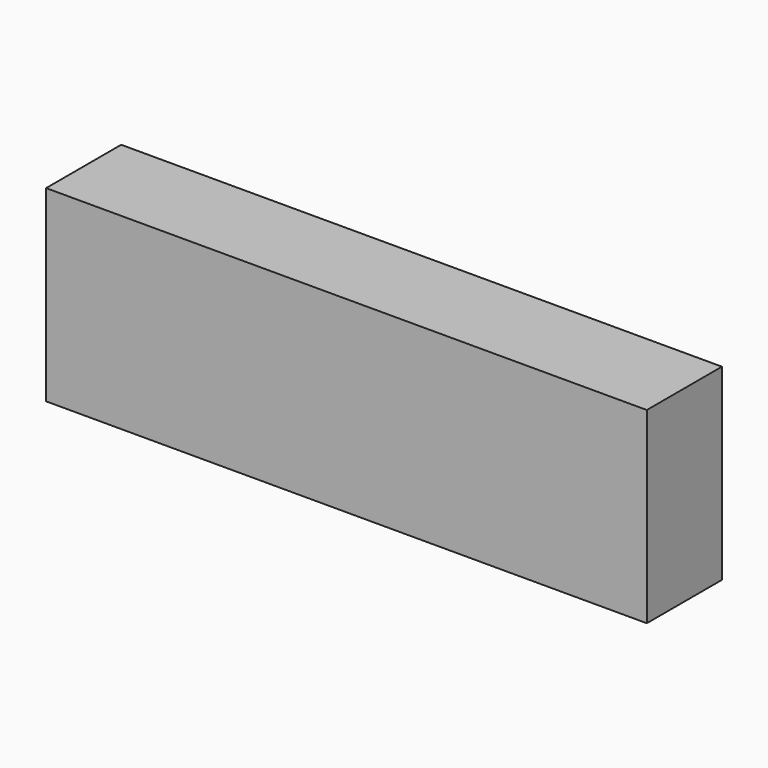
from build123d import *

# Parameters (mm, degrees)
SKETCH_W      = 160
SKETCH_H      = 25
EXTRUDE_DEPTH = 50


with BuildPart() as part:
    # Sketch → Extrude (new body)
    with BuildSketch(Plane.XY):
        Rectangle(SKETCH_W, SKETCH_H)
    extrude(amount=EXTRUDE_DEPTH)


solid = part.part
